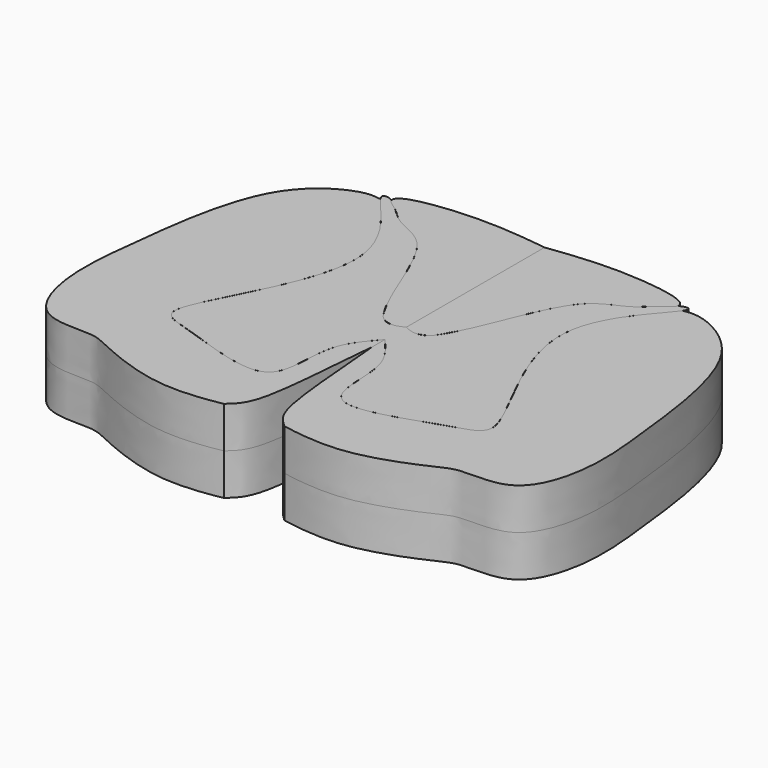
from build123d import *

# Parameters (mm, degrees)
F1_DEPTH = 12.7
F4_DEPTH = 12.7
F7_DEPTH = 12.7


with BuildPart() as f1:
    # F0 (on Top) → F1 (new body, symmetric)
    with BuildSketch(Plane.XY):
        with BuildLine():
            Line((0, -3.1240263815), (0, 5.0247077639))
            add(Edge.make_bspline(
                [(0, 5.0247077639), (-2.6123303792, 3.9288672533), (-10.1010325214, 1.3771185054), (-21.1802025564, 43.7994632598), (-35.8409939254, 45.0856183057), (-43.6101225144, 55.3653320239), (-50.6446332122, 54.6651850054), (-15.2001047227, 27.8103283318), (-56.6730273366, -25.0355366777), (-39.4818543736, -27.8515073113), (-5.3655730295, -42.2715239153), (-10.0649867889, -13.9463962568), (-2.9922570077, -6.7035477403), (0, -3.1240263815)],
                knots=[0, 0, 0, 0, 0.0569304707, 0.1879257965, 0.2676473783, 0.3402298101, 0.3710841131, 0.4888376968, 0.6436650211, 0.7130387194, 0.8271186955, 0.9188817109, 1, 1, 1, 1], degree=3))
        make_face()
    extrude(amount=F1_DEPTH, both=True)

    # F2: F1 across plane


with BuildPart() as f1_1:
    add(f1.part)
    add(f1.part.mirror(Plane.YZ))


with BuildPart() as f4:
    # F3 (on Top) → F4 (new body, symmetric)
    with BuildSketch(Plane.XY):
        with BuildLine():
            add(Edge.make_bspline(
                [(0, 5.0247077639), (-1.1717546943, 4.493822686), (-3.4651063648, 3.4390193783), (-7.0522745719, 4.9110143663), (-8.6563704033, 6.9269602828), (-12.6718531055, 14.4602531592), (-15.4548277893, 21.6712036634), (-19.3636398916, 31.1197588283), (-22.7702628506, 37.7138269582), (-25.7114834806, 41.4600749806), (-29.1670779606, 43.983837304), (-33.1872381871, 45.7342737051), (-36.8260033722, 47.6604642058), (-40.00383122, 51.3049997244), (-44.7627519766, 53.8532767734), (-42.2992048489, 58.0100433981), (-20.0508843124, 60.5264253346), (-6.6973417906, 58.8481789959), (0, 57.9986348748)],
                knots=[0, 0, 0, 0, 0.047610784, 0.0930661601, 0.1324166982, 0.2027140469, 0.2737695062, 0.3525071759, 0.4198296111, 0.4726498127, 0.523024602, 0.5744430543, 0.6239142157, 0.6793997805, 0.731833975, 0.7722431925, 0.8855233958, 1, 1, 1, 1], degree=3))
            Line((0, 5.0247077639), (0, 57.9986348748))
        make_face()
    extrude(amount=F4_DEPTH, both=True)


with BuildPart() as f5_1:
    # F5: instance of F4
    add(f4.part.mirror(Plane.YZ))


with BuildPart() as f7:
    # F6 (on Top) → F7 (new body, symmetric)
    with BuildSketch(Plane.XY):
        with BuildLine():
            Line((0, -8.1111639738), (0, -3.1240263815))
            add(Edge.make_bspline(
                [(0, -3.1240263815), (-0.9292752461, -4.2265559221), (-2.766322446, -6.3391177138), (-5.0228492586, -9.4079529513), (-7.0072545455, -13.1441830346), (-8.0210471254, -18.6607240888), (-8.1424003741, -24.0499836844), (-8.6237018345, -29.2323603894), (-9.9759025008, -33.0084421691), (-12.9295708787, -34.8225061616), (-15.9607431629, -35.1117252278), (-20.4812693768, -34.6633999484), (-25.3377646616, -33.4215934702), (-29.2780160793, -32.2004561231), (-32.6934164173, -31.0612870882), (-37.866991671, -29.2577136558), (-42.1511771667, -27.8898056287), (-46.7996988696, -26.5752891771), (-49.2325203615, -23.6686085863), (-47.8353820745, -18.7228371832), (-45.4330354542, -13.5392092659), (-42.9408062789, -8.6265359701), (-40.1680782847, -3.2039968086), (-37.3973784787, 2.63023549), (-35.8304039266, 6.3253503207), (-34.3691053673, 10.0493399669), (-32.6792873136, 15.3678771438), (-31.720610284, 20.1888489628), (-31.3204626113, 24.7813967669), (-31.8216523609, 29.8555111434), (-33.2422306712, 34.4321555404), (-35.5329995477, 38.9432491427), (-37.1847255499, 41.5849658793), (-40.2132839804, 45.7677212068), (-43.2762491538, 49.3378831658), (-45.4922335062, 51.8842009106), (-46.0805028774, 52.7179791695), (-46.3210727407, 53.0330442148)],
                knots=[0, 0, 0, 0, 0.0279394134, 0.05420763, 0.0818483551, 0.113764987, 0.1455943928, 0.1765191126, 0.2030575136, 0.2271240146, 0.2504743226, 0.2792926447, 0.3099554411, 0.3372008505, 0.3629678731, 0.3944397867, 0.423839151, 0.4531723546, 0.4775070573, 0.5069975816, 0.5398111521, 0.5715375597, 0.6052741452, 0.6397080307, 0.666653207, 0.6935405307, 0.7255678062, 0.755745792, 0.7847128912, 0.8150606645, 0.8450942466, 0.875101082, 0.8992018551, 0.9297180238, 0.9598992893, 0.9843943138, 1, 1, 1, 1], degree=3))
            add(Edge.make_bspline(
                [(-46.3210727407, 53.0330442148), (-47.8195865426, 53.2699336816), (-52.2313301369, 53.9673550775), (-72.9460470032, 43.1775499778), (-78.1298668808, -0.5485707556), (-80.8713339713, -25.1632303787), (-73.8020077549, -46.2177966584), (-56.5930016407, -44.2080683786), (-50.8595247973, -47.0241117407), (-30.7326701187, -56.0445487323), (-15.6791460333, -54.4291151729), (-9.2493283301, -53.2280220451)],
                knots=[0, 0, 0, 0, 0.0581494804, 0.1711966864, 0.3381643355, 0.4701308527, 0.5785913828, 0.6742325924, 0.7397753332, 0.8630806043, 0.9555906014, 0.9555906014, 0.9555906014, 0.9555906014], degree=3))
            add(Edge.make_bspline(
                [(-9.2493283301, -53.2280220451), (-8.2355560104, -52.3170153473), (-5.7806079829, -50.1109242435), (-2.7002984552, -42.1760487851), (-0.8455216089, -16.6876115453), (-0.2267301741, -10.4109744463), (0, -8.1111639738)],
                knots=[0, 0, 0, 0, 0.1577860059, 0.3820941216, 0.773594301, 1, 1, 1, 1], degree=3))
        make_face()
    extrude(amount=F7_DEPTH, both=True)


with BuildPart() as f8_1:
    # F8: instance of F7
    add(f7.part.mirror(Plane.YZ))


solid = Compound([f1_1.part, f4.part, f5_1.part, f7.part, f8_1.part])
